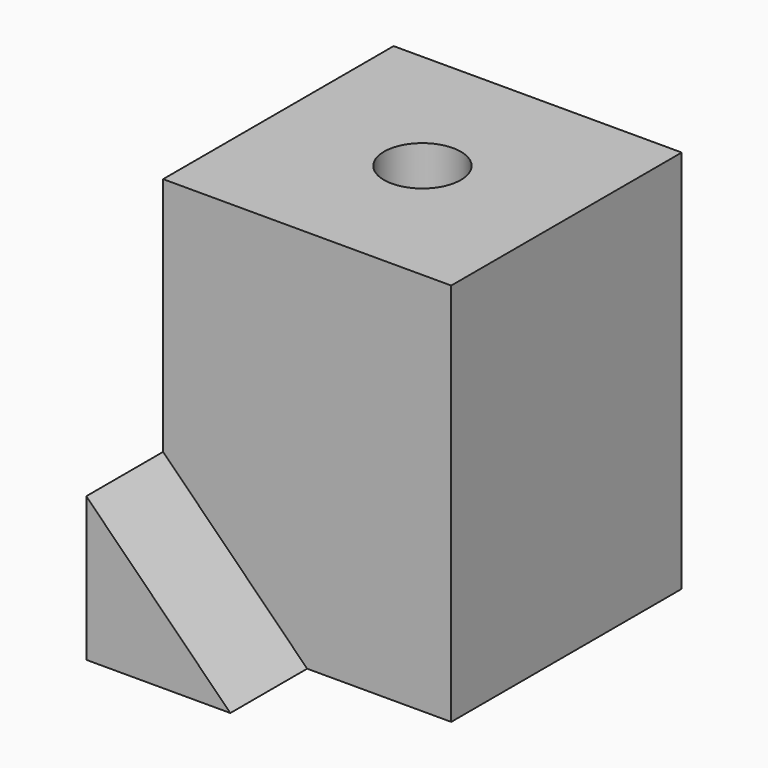
from build123d import *

# Parameters (mm, degrees)
F0_W     = 76.2
F0_H     = 76.2
F1_DEPTH = 101.6
F3_DEPTH = 25.4
F5_D     = 20.32


with BuildPart() as f1:
    # F0 (on Top) → F1 (new body)
    with BuildSketch(Plane.XY):
        with Locations((2.984056, -3.896592)):
            Rectangle(F0_W, F0_H)
    extrude(amount=F1_DEPTH)

    # F2 (on face) → F3 (join)
    with BuildSketch(Plane.XZ.offset(41.996592)):
        Polygon((-35.115944, 38.1), (-35.115944, 0), (2.984056, 0), align=None)
    extrude(amount=F3_DEPTH)

    # F5 (through all)
    with Locations(Plane.XY.offset(101.6)):
        with Locations((2.984056, -3.896592)):
            Hole(F5_D / 2)


solid = f1.part
